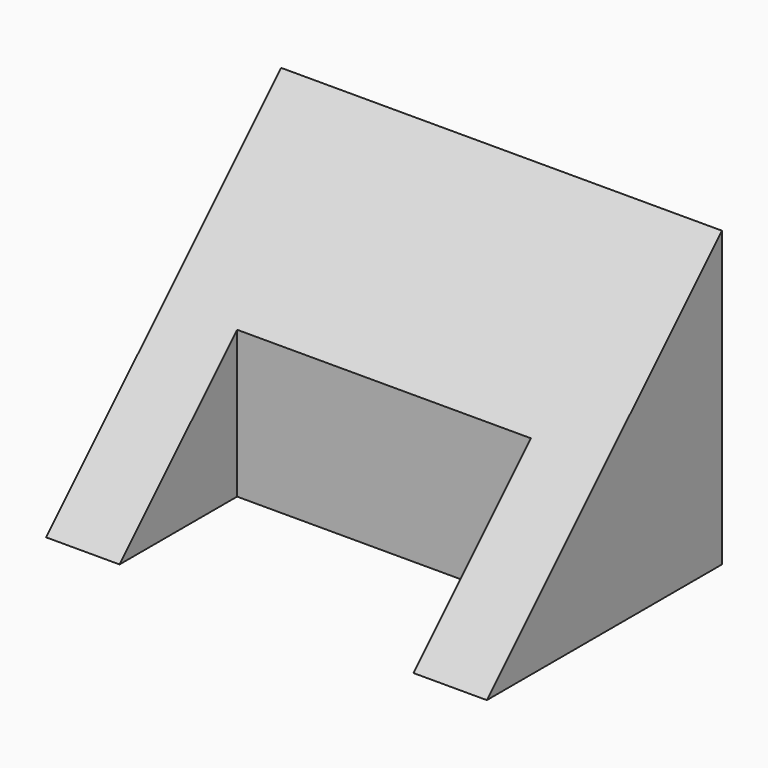
from build123d import *

# Parameters (mm, degrees)
F1_DEPTH = 38.1
F2_W     = 25.4
F2_H     = 12.7
F3_DEPTH = 12.701


with BuildPart() as f1:
    # F0 (on Right) → F1 (new body)
    with BuildSketch(Plane.YZ):
        Polygon((12.7, 12.7), (-12.7, -12.7), (12.7, -12.7), align=None)
    extrude(amount=F1_DEPTH)

    # F2 (on Top) → F3 (cut, through all)
    with BuildSketch(Plane.XY):
        with Locations((19.05, -6.35)):
            Rectangle(F2_W, F2_H)
    extrude(amount=-F3_DEPTH, mode=Mode.SUBTRACT)


solid = f1.part
